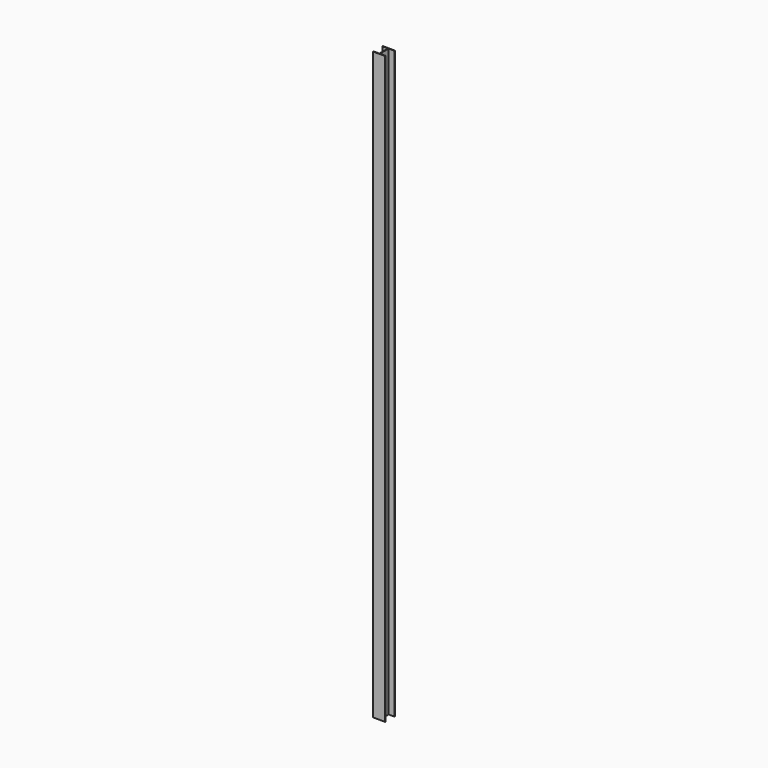
from build123d import *

# Parameters (mm, degrees)
F1_DEPTH = 7420


with BuildPart() as f1:
    # F0 (on Top) → F1 (new body)
    with BuildSketch(Plane.XY):
        Polygon((-59.378629, 137.393144), (-132.328629, 137.393144), (-132.328629, 130.593144), (-59.378629, 130.593144), (-59.378629, -7.806856), (-132.328629, -7.806856), (-132.328629, -14.606856), (19.671371, -14.606856), (19.671371, -7.806856), (-53.278629, -7.806856), (-53.278629, 130.593144), (19.671371, 130.593144), (19.671371, 137.393144), align=None)
    extrude(amount=-F1_DEPTH)


solid = f1.part
